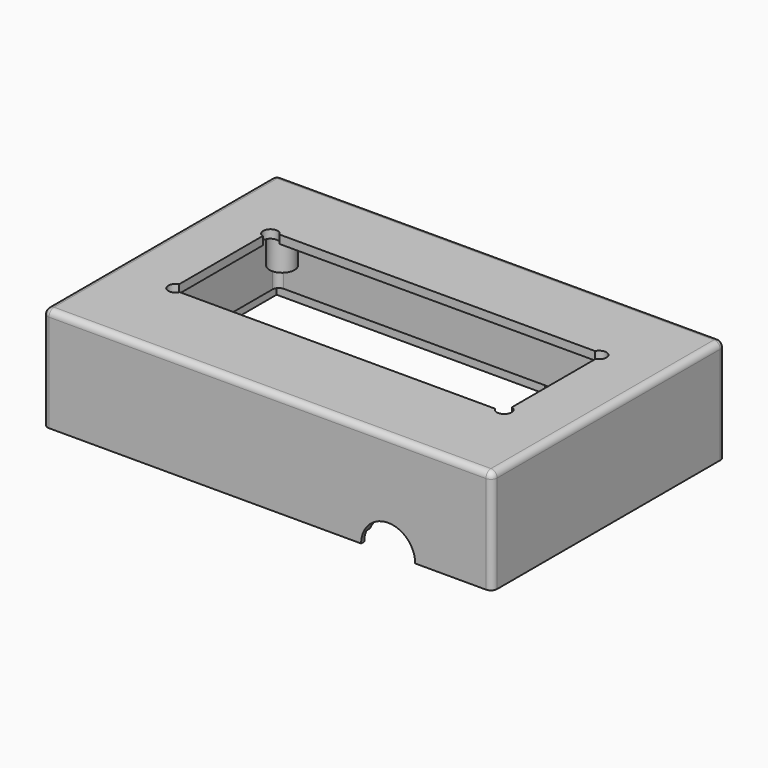
from build123d import *

# Parameters (mm, degrees)
F0_W      = 108
F0_H      = 70
F0_W_2    = 106.1
F0_H_2    = 68.1
F0_W_3    = 104
F0_H_3    = 66
F0_R      = 3
F1_DEPTH  = 2
F2_DEPTH  = 22.49
F3_DEPTH  = 23
F4_DEPTH  = 14
F6_DEPTH  = 2.5
F7_W      = 21
F7_H      = 2.4
F8_DEPTH  = 2.5
F10_D     = 2.4384
F10_DEPTH = 10
F10_TIP   = 0.7325692667
F11_R     = 1.5
F12_R     = 1.5


with BuildPart() as f1:
    # F0 (on Top) → F1 (new body)
    with BuildSketch(Plane.XY):
        with Locations((-3.3541592062, -0.1079301417)):
            Rectangle(F0_W, F0_H)
        with Locations((-3.3541592062, -0.1079301417)):
            Rectangle(F0_W_2, F0_H_2, mode=Mode.SUBTRACT)
        with Locations((-3.3541592062, -0.1079301417)):
            Rectangle(F0_W_2, F0_H_2)
        with Locations((-3.3541592062, -0.1079301417)):
            Rectangle(F0_W_3, F0_H_3, mode=Mode.SUBTRACT)
        with Locations((-3.3541592062, -0.1079301417)):
            Rectangle(F0_W_3, F0_H_3)
        with Locations((-49.8541592062, -27.6079301417)):
            Circle(F0_R, mode=Mode.SUBTRACT)
        with Locations((43.1458407938, -27.6079301417)):
            Circle(F0_R, mode=Mode.SUBTRACT)
        with Locations((-49.8541592062, 27.3920698583)):
            Circle(F0_R, mode=Mode.SUBTRACT)
        with BuildLine():
            ThreePointArc((-43.3541592062, 13.4650188752), (-44.1826393193, 16.2812101433), (-41.2730203761, 15.8920698583))
            Line((-41.2730203761, 15.8920698583), (34.5647019638, 15.8920698583))
            ThreePointArc((34.5647019638, 15.8920698583), (36.5302279992, 16.8493327192), (37.8958407938, 15.1420698583))
            ThreePointArc((37.8958407938, 15.1420698583), (37.5489623139, 14.0962448251), (36.6458407938, 13.4650188752))
            Line((36.6458407938, 13.4650188752), (36.6458407938, -11.6808791586))
            ThreePointArc((36.6458407938, -11.6808791586), (37.5489623139, -12.3121051085), (37.8958407938, -13.3579301417))
            ThreePointArc((37.8958407938, -13.3579301417), (36.5302279992, -15.0651930026), (34.5647019638, -14.1079301417))
            Line((34.5647019638, -14.1079301417), (-41.2730203761, -14.1079301417))
            ThreePointArc((-41.2730203761, -14.1079301417), (-44.1826393193, -14.4970704267), (-43.3541592062, -11.6808791586))
            Line((-43.3541592062, -11.6808791586), (-43.3541592062, 13.4650188752))
        make_face(mode=Mode.SUBTRACT)
        with Locations((43.1458407938, 27.3920698583)):
            Circle(F0_R, mode=Mode.SUBTRACT)
        with Locations((-49.8541592062, 27.3920698583)):
            Circle(F0_R)
        with Locations((43.1458407938, 27.3920698583)):
            Circle(F0_R)
        with Locations((43.1458407938, -27.6079301417)):
            Circle(F0_R)
        with Locations((-49.8541592062, -27.6079301417)):
            Circle(F0_R)
    extrude(amount=-F1_DEPTH)

    # F0 (on Top) → F2 (join)
    with BuildSketch(Plane.XY):
        with Locations((-3.3541592062, -0.1079301417)):
            Rectangle(F0_W_2, F0_H_2)
        with Locations((-3.3541592062, -0.1079301417)):
            Rectangle(F0_W_3, F0_H_3, mode=Mode.SUBTRACT)
    extrude(amount=-F2_DEPTH)

    # F3 (add): a face of the model
    f3_faces = [f1.faces().sort_by_distance(p)[0] for p in [
        (50.5171395895, -0.1079301417, -2),
    ]]
    extrude(f3_faces, amount=F3_DEPTH)

    # F0 (on Top) → F4 (join)
    with BuildSketch(Plane.XY):
        with Locations((-49.8541592062, 27.3920698583)):
            Circle(F0_R)
        with Locations((43.1458407938, 27.3920698583)):
            Circle(F0_R)
        with Locations((-49.8541592062, -27.6079301417)):
            Circle(F0_R)
        with Locations((43.1458407938, -27.6079301417)):
            Circle(F0_R)
    extrude(amount=-F4_DEPTH)

    # F5 (on face) → F6 (cut)
    with BuildSketch(Plane.XZ.offset(35.1079301417)):
        with BuildLine():
            Line((19.1458407938, -25), (32.1458407938, -25))
            ThreePointArc((32.1458407938, -25), (25.6458407938, -18.5), (19.1458407938, -25))
        make_face()
    extrude(amount=-F6_DEPTH, mode=Mode.SUBTRACT)

    # F7 (on face) → F8 (cut)
    with BuildSketch(Plane(origin=(0, 34.8920698583, 0), x_dir=(-1, 0, 0), z_dir=(0, 1, 0))):
        with Locations((-18.5458407938, -23.8)):
            Rectangle(F7_W, F7_H)
    extrude(amount=-F8_DEPTH, mode=Mode.SUBTRACT)

    # F10
    with Locations(Plane(origin=(0, 0, -14), x_dir=(1, 0, 0), z_dir=(0, 0, -1))):
        with Locations((-49.8525463045, -27.2346809506), (43.3072187006, -27.4257659912), (43.1458407938, 27.6079301417), (-49.7261881828, 27.6079301417)):
            Hole(F10_D / 2, depth=F10_DEPTH)
            with Locations((0, 0, -(F10_DEPTH + F10_TIP / 2))):  # 118° drill point
                Cone(0, F10_D / 2, F10_TIP, mode=Mode.SUBTRACT)

    # F11
    f11_edges = [f1.edges().sort_by_distance(p)[0] for p in [
        (-57.354159, -0.10793, 0),
        (-3.354159, 34.89207, 0),
        (50.645841, -0.10793, 0),
        (50.645841, -35.10793, -12.5),
        (-3.354159, -35.10793, 0),
        (-57.354159, -35.10793, -12.5),
        (50.645841, 34.89207, -12.5),
        (-57.354159, 34.89207, -12.5),
    ]]
    fillet(f11_edges, radius=F11_R)

    # F12
    f12_edges = [f1.edges().sort_by_distance(p)[0] for p in [
        (48.645841, -33.10793, -12.245),
        (48.645841, -0.10793, -2),
        (-3.354159, -33.10793, -2),
        (-55.354159, -33.10793, -12.245),
        (-55.354159, -0.10793, -2),
        (-55.354159, 32.89207, -12.245),
        (-3.354159, 32.89207, -2),
        (48.645841, 32.89207, -12.245),
    ]]
    fillet(f12_edges, radius=F12_R)


solid = f1.part
